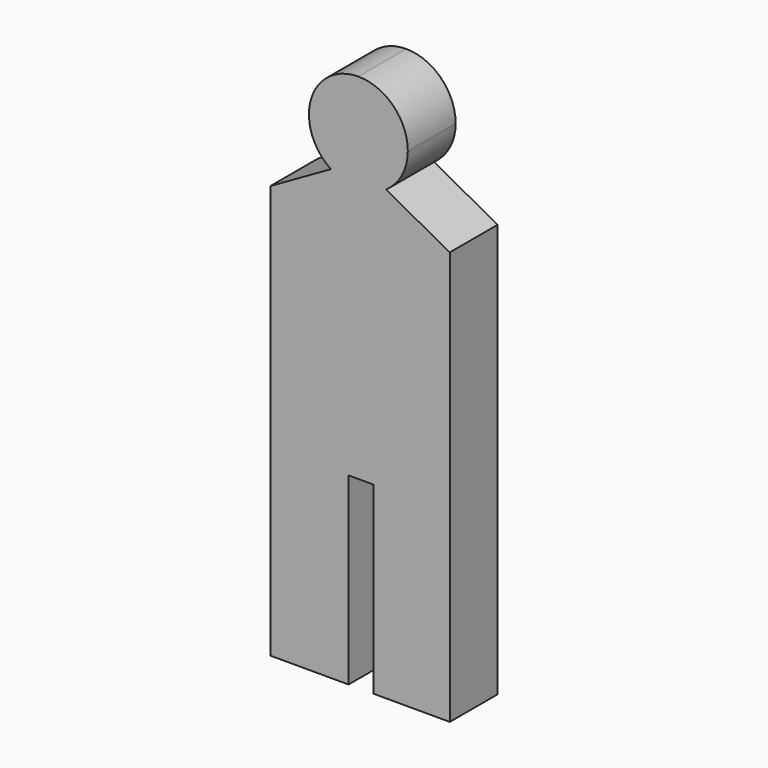
from build123d import *

# Parameters (mm, degrees)
F1_DEPTH = 203.2


with BuildPart() as f1:
    # F0 (on Front) → F1 (new body)
    with BuildSketch(Plane.XZ):
        with BuildLine():
            ThreePointArc((167.890755, 740.885854), (118.716692, 859.602545), (1e-06, 908.776609))
            ThreePointArc((1e-06, 908.776609), (-160.634327, 789.711243), (-93.430202, 601.393549))
            ThreePointArc((-93.430202, 601.393549), (0.169527, 572.995184), (93.711715, 601.582515))
            ThreePointArc((93.711715, 601.582515), (148.190142, 661.97459), (167.890755, 740.885854))
        make_face()
        with BuildLine():
            Line((-93.430202, 601.393549), (-299.035666, 484.031677))
            Line((-299.035666, 484.031677), (-299.035666, -920.023391))
            Line((-299.035666, -920.023391), (-33.226077, -920.023391))
            Line((-33.226077, -920.023391), (-33.226077, -294.728398))
            Line((-33.226077, -294.728398), (51.481161, -294.728398))
            Line((51.481161, -294.728398), (51.481161, -920.023391))
            Line((51.481161, -920.023391), (310.564334, -920.023391))
            Line((310.564334, -920.023391), (310.564334, 484.031677))
            Line((310.564334, 484.031677), (93.711715, 601.582515))
            ThreePointArc((93.711715, 601.582515), (0.169527, 572.995184), (-93.430202, 601.393549))
        make_face()
    extrude(amount=F1_DEPTH)


solid = f1.part
